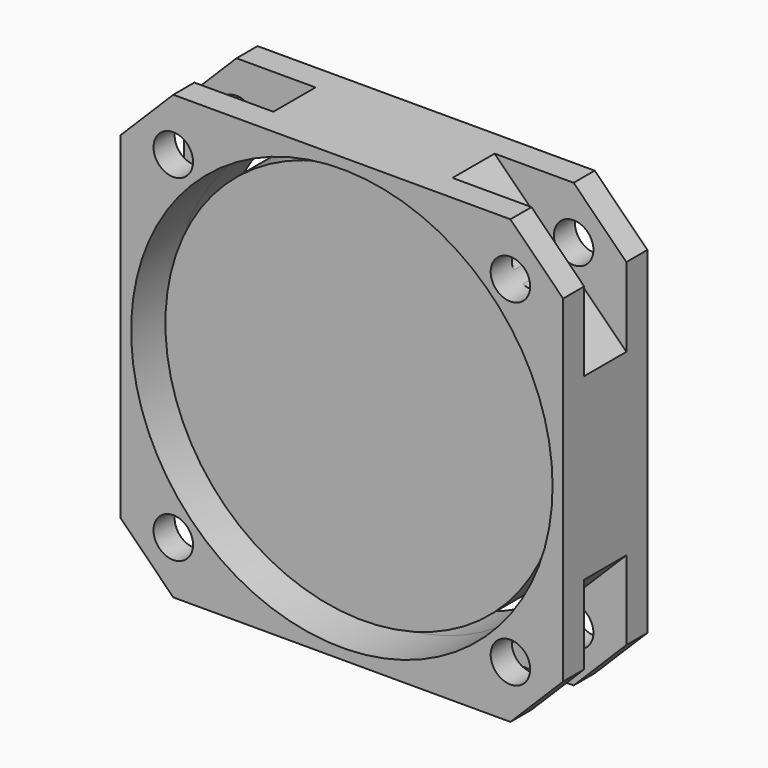
from build123d import *

# Parameters (mm, degrees)
F0_R     = 20.32
F1_DEPTH = 5.08
F2_SIZE  = 5.08
F3_DEPTH = 2.54
F0_R_2   = 19.05
F4_DEPTH = 2.54


with BuildPart() as f1:
    # F0 (on Front) → F1 (new body, symmetric)
    with BuildSketch(Plane.XZ):
        with BuildLine():
            Line((-8.636, 21.336), (-21.336, 21.336))
            Line((-21.336, 21.336), (-21.336, 8.636))
            Line((-21.336, 8.636), (-15.4350128061, 14.5369871939))
            ThreePointArc((-15.4350128061, 14.5369871939), (-17.8673667498, 17.2721309944), (-14.351, 16.256))
            ThreePointArc((-14.351, 16.256), (-14.3980785276, 15.835104761), (-14.5369871939, 15.4350128061))
            Line((-14.5369871939, 15.4350128061), (-8.636, 21.336))
        make_face()
        with BuildLine():
            Line((8.636, 21.336), (-8.636, 21.336))
            Line((-8.636, 21.336), (-14.5369871939, 15.4350128061))
            ThreePointArc((-14.5369871939, 15.4350128061), (-14.9089615818, 14.9089615818), (-15.4350128061, 14.5369871939))
            Line((-15.4350128061, 14.5369871939), (-21.336, 8.636))
            Line((-21.336, 8.636), (-21.336, -8.636))
            Line((-21.336, -8.636), (-15.4350128061, -14.5369871939))
            ThreePointArc((-15.4350128061, -14.5369871939), (-14.9089615818, -14.9089615818), (-14.5369871939, -15.4350128061))
            Line((-14.5369871939, -15.4350128061), (-8.636, -21.336))
            Line((-8.636, -21.336), (8.636, -21.336))
            Line((8.636, -21.336), (14.5369871939, -15.4350128061))
            ThreePointArc((14.5369871939, -15.4350128061), (14.9089615818, -14.9089615818), (15.4350128061, -14.5369871939))
            Line((15.4350128061, -14.5369871939), (21.336, -8.636))
            Line((21.336, -8.636), (21.336, 8.636))
            Line((21.336, 8.636), (15.4350128061, 14.5369871939))
            ThreePointArc((15.4350128061, 14.5369871939), (14.9089615818, 14.9089615818), (14.5369871939, 15.4350128061))
            Line((14.5369871939, 15.4350128061), (8.636, 21.336))
        make_face()
        Circle(F0_R, mode=Mode.SUBTRACT)
        with BuildLine():
            Line((21.336, 21.336), (8.636, 21.336))
            Line((8.636, 21.336), (14.5369871939, 15.4350128061))
            ThreePointArc((14.5369871939, 15.4350128061), (15.835104761, 18.1139214724), (18.161, 16.256))
            ThreePointArc((18.161, 16.256), (17.2721309944, 14.6446332502), (15.4350128061, 14.5369871939))
            Line((15.4350128061, 14.5369871939), (21.336, 8.636))
            Line((21.336, 8.636), (21.336, 21.336))
        make_face()
        with BuildLine():
            Line((8.636, 21.336), (-8.636, 21.336))
            Line((-8.636, 21.336), (-14.5369871939, 15.4350128061))
            ThreePointArc((-14.5369871939, 15.4350128061), (-14.9089615818, 14.9089615818), (-15.4350128061, 14.5369871939))
            Line((-15.4350128061, 14.5369871939), (-21.336, 8.636))
            Line((-21.336, 8.636), (-21.336, -8.636))
            Line((-21.336, -8.636), (-15.4350128061, -14.5369871939))
            ThreePointArc((-15.4350128061, -14.5369871939), (-14.9089615818, -14.9089615818), (-14.5369871939, -15.4350128061))
            Line((-14.5369871939, -15.4350128061), (-8.636, -21.336))
            Line((-8.636, -21.336), (8.636, -21.336))
            Line((8.636, -21.336), (14.5369871939, -15.4350128061))
            ThreePointArc((14.5369871939, -15.4350128061), (14.9089615818, -14.9089615818), (15.4350128061, -14.5369871939))
            Line((15.4350128061, -14.5369871939), (21.336, -8.636))
            Line((21.336, -8.636), (21.336, 8.636))
            Line((21.336, 8.636), (15.4350128061, 14.5369871939))
            ThreePointArc((15.4350128061, 14.5369871939), (14.9089615818, 14.9089615818), (14.5369871939, 15.4350128061))
            Line((14.5369871939, 15.4350128061), (8.636, 21.336))
        make_face()
        Circle(F0_R, mode=Mode.SUBTRACT)
        with BuildLine():
            Line((21.336, -21.336), (21.336, -8.636))
            Line((21.336, -8.636), (15.4350128061, -14.5369871939))
            ThreePointArc((15.4350128061, -14.5369871939), (17.2721309944, -14.6446332502), (18.161, -16.256))
            ThreePointArc((18.161, -16.256), (15.835104761, -18.1139214724), (14.5369871939, -15.4350128061))
            Line((14.5369871939, -15.4350128061), (8.636, -21.336))
            Line((8.636, -21.336), (21.336, -21.336))
        make_face()
        with BuildLine():
            Line((-15.4350128061, -14.5369871939), (-21.336, -8.636))
            Line((-21.336, -8.636), (-21.336, -21.336))
            Line((-21.336, -21.336), (-8.636, -21.336))
            Line((-8.636, -21.336), (-14.5369871939, -15.4350128061))
            ThreePointArc((-14.5369871939, -15.4350128061), (-14.3980785276, -15.835104761), (-14.351, -16.256))
            ThreePointArc((-14.351, -16.256), (-17.8673667498, -17.2721309944), (-15.4350128061, -14.5369871939))
        make_face()
    extrude(amount=F1_DEPTH, both=True)

    # F2
    f2_edges = [f1.edges().sort_by_distance(p)[0] for p in [
        (-21.336, 0, 21.336),
        (-21.336, 0, -21.336),
        (21.336, 0, -21.336),
        (21.336, 0, 21.336),
    ]]
    chamfer(f2_edges, length=F2_SIZE)

    # F0 (on Front) → F3 (cut, symmetric)
    with BuildSketch(Plane.XZ):
        with BuildLine():
            Line((-8.636, 21.336), (-21.336, 21.336))
            Line((-21.336, 21.336), (-21.336, 8.636))
            Line((-21.336, 8.636), (-15.4350128061, 14.5369871939))
            ThreePointArc((-15.4350128061, 14.5369871939), (-17.8673667498, 17.2721309944), (-14.351, 16.256))
            ThreePointArc((-14.351, 16.256), (-14.3980785276, 15.835104761), (-14.5369871939, 15.4350128061))
            Line((-14.5369871939, 15.4350128061), (-8.636, 21.336))
        make_face()
        with BuildLine():
            Line((21.336, 21.336), (8.636, 21.336))
            Line((8.636, 21.336), (14.5369871939, 15.4350128061))
            ThreePointArc((14.5369871939, 15.4350128061), (15.835104761, 18.1139214724), (18.161, 16.256))
            ThreePointArc((18.161, 16.256), (17.2721309944, 14.6446332502), (15.4350128061, 14.5369871939))
            Line((15.4350128061, 14.5369871939), (21.336, 8.636))
            Line((21.336, 8.636), (21.336, 21.336))
        make_face()
        with BuildLine():
            Line((21.336, -21.336), (21.336, -8.636))
            Line((21.336, -8.636), (15.4350128061, -14.5369871939))
            ThreePointArc((15.4350128061, -14.5369871939), (17.2721309944, -14.6446332502), (18.161, -16.256))
            ThreePointArc((18.161, -16.256), (15.835104761, -18.1139214724), (14.5369871939, -15.4350128061))
            Line((14.5369871939, -15.4350128061), (8.636, -21.336))
            Line((8.636, -21.336), (21.336, -21.336))
        make_face()
        with BuildLine():
            Line((-15.4350128061, -14.5369871939), (-21.336, -8.636))
            Line((-21.336, -8.636), (-21.336, -21.336))
            Line((-21.336, -21.336), (-8.636, -21.336))
            Line((-8.636, -21.336), (-14.5369871939, -15.4350128061))
            ThreePointArc((-14.5369871939, -15.4350128061), (-14.3980785276, -15.835104761), (-14.351, -16.256))
            ThreePointArc((-14.351, -16.256), (-17.8673667498, -17.2721309944), (-15.4350128061, -14.5369871939))
        make_face()
    extrude(amount=F3_DEPTH, both=True, mode=Mode.SUBTRACT)


with BuildPart() as f4:
    # F0 (on Front) → F4 (new body, symmetric)
    with BuildSketch(Plane.XZ):
        Circle(F0_R_2)
    extrude(amount=F4_DEPTH, both=True)


solid = Compound([f1.part, f4.part])
